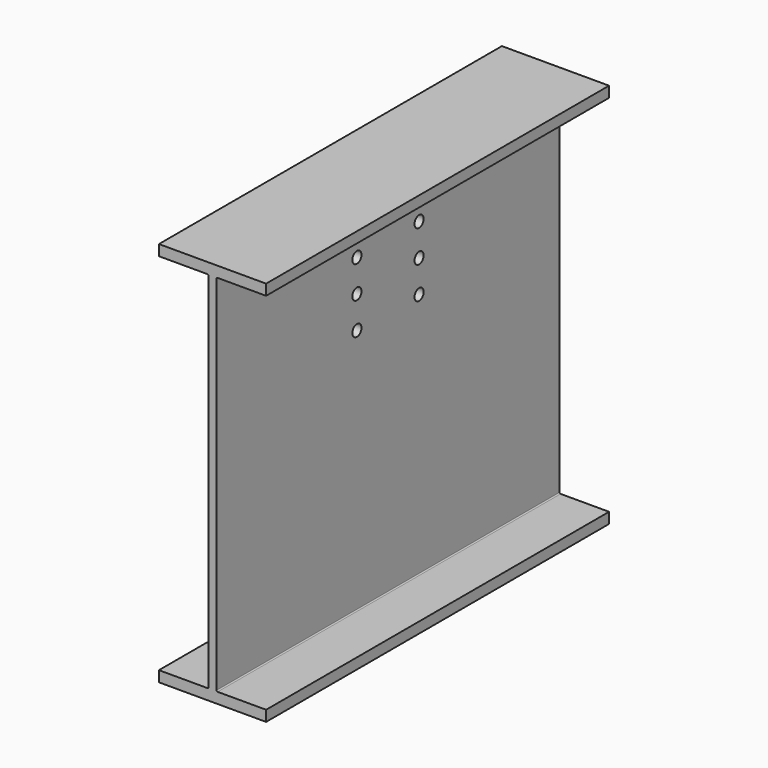
from build123d import *

# Parameters (mm, degrees)
F1_DEPTH = 508
F3_D     = 26.9875
F3_DEPTH = 25.4
F4_D     = 26.9875
F4_DEPTH = 25.4


with BuildPart() as f1:
    # F0 (on Front) → F1 (new body, symmetric)
    with BuildSketch(Plane.XZ):
        with BuildLine():
            Line((127, -457.2), (127, -431.8))
            Line((127, -431.8), (12.065, -431.8))
            ThreePointArc((12.065, -431.8), (10.268949, -431.056051), (9.525, -429.26))
            Line((9.525, -429.26), (9.525, 429.26))
            ThreePointArc((9.525, 429.26), (10.268949, 431.056051), (12.065, 431.8))
            Line((12.065, 431.8), (127, 431.8))
            Line((127, 431.8), (127, 457.2))
            Line((127, 457.2), (-127, 457.2))
            Line((-127, 457.2), (-127, 431.8))
            Line((-127, 431.8), (-12.065, 431.8))
            ThreePointArc((-12.065, 431.8), (-10.268949, 431.056051), (-9.525, 429.26))
            Line((-9.525, 429.26), (-9.525, -429.26))
            ThreePointArc((-9.525, -429.26), (-10.268949, -431.056051), (-12.065, -431.8))
            Line((-12.065, -431.8), (-127, -431.8))
            Line((-127, -431.8), (-127, -457.2))
            Line((-127, -457.2), (127, -457.2))
        make_face()
    extrude(amount=F1_DEPTH, both=True)

    # F3
    with Locations(Plane.YZ.offset(9.525)):
        with Locations((92.075, 381), (92.075, 304.8), (92.075, 228.6), (92.075, 152.4)):
            Hole(F3_D / 2, depth=F3_DEPTH)

    # F4
    with Locations(Plane.YZ.offset(9.525)):
        with Locations((-92.075, 381), (-92.075, 304.8), (-92.075, 228.6), (-92.075, 152.4)):
            Hole(F4_D / 2, depth=F4_DEPTH)


solid = f1.part
